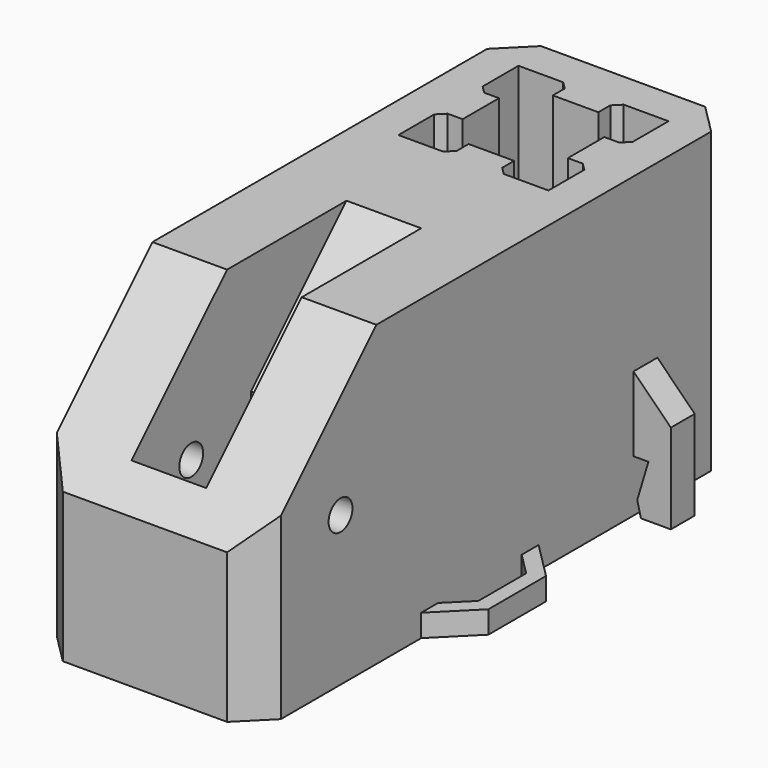
from build123d import *

# Parameters (mm, degrees)
SKETCH002_W     = 30
SKETCH002_H     = 30
PAD002_DEPTH    = 20
CHAMFER_SIZE    = 1
PAD003_DEPTH    = 15
SKETCH004_W     = 10
SKETCH004_H     = 20
POCKET_DEPTH    = 35
CHAMFER001_SIZE = 16
SKETCH005_R     = 2.25
POCKET001_DEPTH = 5.001
PAD004_DEPTH    = 2
CHAMFER002_SIZE = 4
SKETCH017_R     = 2
POCKET004_DEPTH = 30.001
PAD011_DEPTH    = 3


with BuildPart() as part:
    # Sketch002 → Pad002 (new body, symmetric)
    with BuildSketch(Plane.XY):
        Rectangle(SKETCH002_W, SKETCH002_H)
        Polygon((10.05, 3.05), (7.05, 3.05), (7.05, -3.05), (10.05, -3.05), (10.05, -10.05), (3.05, -10.05), (3.05, -7.05), (-3.05, -7.05), (-3.05, -10.05), (-10.05, -10.05), (-10.05, -3.05), (-7.05, -3.05), (-7.05, 3.05), (-10.05, 3.05), (-10.05, 10.05), (-3.05, 10.05), (-3.05, 7.05), (3.05, 7.05), (3.05, 10.05), (10.05, 10.05), align=None, mode=Mode.SUBTRACT)
    extrude(amount=PAD002_DEPTH, both=True)

    # Chamfer
    chamfer_edges = [part.edges().sort_by_distance(p)[0] for p in [
        (-10.05, 3.05, 0),
        (-3.05, 10.05, 0),
        (-10.05, -3.05, 0),
        (-3.05, -10.05, 0),
        (3.05, -10.05, 0),
        (10.05, -3.05, 0),
        (10.05, 3.05, 0),
        (3.05, 10.05, 0),
    ]]
    chamfer(chamfer_edges, length=CHAMFER_SIZE)

    # Sketch003 → Pad003 (join, symmetric)
    with BuildSketch(Plane.YZ):
        Polygon((-15, -20), (-40.05, -20), (-65.05, -20), (-65.05, 0), (-45.05, 20), (-15, 20), align=None)
    extrude(amount=PAD003_DEPTH, both=True)

    # Sketch004 (on Face35 of Pad003) → Pocket (cut)
    with BuildSketch(Plane.XY.offset(20)):
        with Locations((0, -51.05)):
            Rectangle(SKETCH004_W, SKETCH004_H)
    extrude(amount=-POCKET_DEPTH, mode=Mode.SUBTRACT)

    # Chamfer001
    chamfer001_edges = [part.edges().sort_by_distance(p)[0] for p in [
        (0, -41.05, 20),
    ]]
    chamfer(chamfer001_edges, length=CHAMFER001_SIZE)

    # Sketch005 (on Face10 of Chamfer001) → Pocket001 (cut, through all)
    with BuildSketch(Plane.XY.offset(-15)):
        with Locations((0, -46.05)):
            Circle(SKETCH005_R)
        with Locations((0, -56.05)):
            Circle(SKETCH005_R)
    extrude(amount=-POCKET001_DEPTH, mode=Mode.SUBTRACT)

    # Sketch006 → Pad004 (join, symmetric)
    with BuildSketch(Plane.XZ):
        Polygon((16, -20), (20, -20), (20, -8), (15, -3), (15, -13), (17, -13), (15.5, -18), align=None)
    extrude(amount=PAD004_DEPTH, both=True)

    # Chamfer002
    chamfer002_edges = [part.edges().sort_by_distance(p)[0] for p in [
        (-15, -65.05, -10),
        (15, -65.05, -10),
        (-15, 15, 0),
        (15, 15, 0),
    ]]
    chamfer(chamfer002_edges, length=CHAMFER002_SIZE)

    # Sketch017 (on Face9 of Chamfer002) → Pocket004 (cut, through all)
    with BuildSketch(Plane.YZ.offset(15)):
        with Locations((-51.05, 0)):
            Circle(SKETCH017_R)
    extrude(amount=-POCKET004_DEPTH, mode=Mode.SUBTRACT)

    # Sketch019 (on Face12 of Pocket004) → Pad011 (join)
    with BuildSketch(Plane(origin=(0, 0, -20), x_dir=(1, 0, 0), z_dir=(0, 0, -1))):
        Polygon((15, 34.721573), (18, 31.721573), (18, 23.721573), (15, 20.721573), (15, 17.893146), (20, 22.893146), (20, 32.55), (15, 37.55), align=None)
    pad011 = extrude(amount=-PAD011_DEPTH)

    # Mirrored001: Pad011 across Sketch019 V_Axis
    add(pad011.mirror(Plane(origin=(0, 0, -20), x_dir=(0, 0, -1), z_dir=(1, 0, 0))))


solid = part.part
